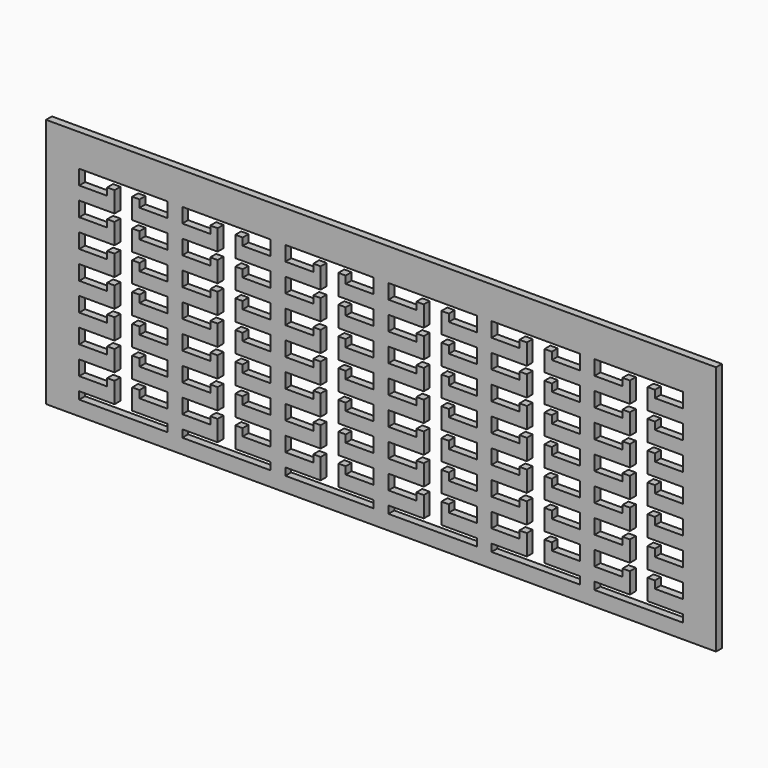
from build123d import *

# Parameters (mm, degrees)
F0_W     = 577.85
F0_H     = 215.9
F1_DEPTH = 6.35


with BuildPart() as f1:
    # F0 (on Front) → F1 (new body)
    with BuildSketch(Plane.XZ):
        with Locations((-282.109771, 15.203728)):
            Rectangle(F0_W, F0_H)
        Polygon((-542.459771, -62.202783), (-542.459771, -49.502783), (-511.979771, -49.502783), (-511.979771, -31.722783), (-518.329771, -31.722783), (-518.329771, -38.072783), (-542.459771, -38.072783), (-542.459771, -25.372783), (-511.979771, -25.372783), (-511.979771, -7.592783), (-518.329771, -7.592783), (-518.329771, -13.942783), (-542.459771, -13.942783), (-542.459771, -1.242783), (-511.979771, -1.242783), (-511.979771, 16.537217), (-518.329771, 16.537217), (-518.329771, 10.187217), (-542.459771, 10.187217), (-542.459771, 22.887217), (-511.979771, 22.887217), (-511.979771, 40.667217), (-518.329771, 40.667217), (-518.329771, 34.317217), (-542.459771, 34.317217), (-542.459771, 47.017217), (-511.979771, 47.017217), (-511.979771, 64.797217), (-518.329771, 64.797217), (-518.329771, 58.447217), (-542.459771, 58.447217), (-542.459771, 71.147217), (-511.979771, 71.147217), (-511.979771, 88.927217), (-518.329771, 88.927217), (-518.329771, 82.577217), (-542.459771, 82.577217), (-542.459771, 95.277217), (-466.259771, 95.277217), (-466.259771, 82.577217), (-490.389771, 82.577217), (-490.389771, 88.927217), (-496.739771, 88.927217), (-496.739771, 71.147217), (-466.259771, 71.147217), (-466.259771, 58.447217), (-490.389771, 58.447217), (-490.389771, 64.797217), (-496.739771, 64.797217), (-496.739771, 47.017217), (-466.259771, 47.017217), (-466.259771, 34.317217), (-490.389771, 34.317217), (-490.389771, 40.667217), (-496.739771, 40.667217), (-496.739771, 22.887217), (-466.259771, 22.887217), (-466.259771, 10.187217), (-490.389771, 10.187217), (-490.389771, 16.537217), (-496.739771, 16.537217), (-496.739771, -1.242783), (-466.259771, -1.242783), (-466.259771, -13.942783), (-490.389771, -13.942783), (-490.389771, -7.592783), (-496.739771, -7.592783), (-496.739771, -25.372783), (-466.259771, -25.372783), (-466.259771, -38.072783), (-490.389771, -38.072783), (-490.389771, -31.722783), (-496.739771, -31.722783), (-496.739771, -49.502783), (-466.259771, -49.502783), (-466.259771, -62.202783), (-490.389771, -62.202783), (-490.389771, -55.852783), (-496.739771, -55.852783), (-496.739771, -73.632783), (-466.259771, -73.632783), (-466.259771, -80.046283), (-542.459771, -80.046283), (-542.459771, -73.632783), (-511.979771, -73.632783), (-511.979771, -55.852783), (-518.329771, -55.852783), (-518.329771, -62.202783), align=None, mode=Mode.SUBTRACT)
        Polygon((-453.559771, -62.202772), (-453.559771, -49.502772), (-423.079771, -49.502772), (-423.079771, -31.722772), (-429.429771, -31.722772), (-429.429771, -38.072772), (-453.559771, -38.072772), (-453.559771, -25.372772), (-423.079771, -25.372772), (-423.079771, -7.592772), (-429.429771, -7.592772), (-429.429771, -13.942772), (-453.559771, -13.942772), (-453.559771, -1.242772), (-423.079771, -1.242772), (-423.079771, 16.537228), (-429.429771, 16.537228), (-429.429771, 10.187228), (-453.559771, 10.187228), (-453.559771, 22.887228), (-423.079771, 22.887228), (-423.079771, 40.667228), (-429.429771, 40.667228), (-429.429771, 34.317228), (-453.559771, 34.317228), (-453.559771, 47.017228), (-423.079771, 47.017228), (-423.079771, 64.797228), (-429.429771, 64.797228), (-429.429771, 58.447228), (-453.559771, 58.447228), (-453.559771, 71.147228), (-423.079771, 71.147228), (-423.079771, 88.927228), (-429.429771, 88.927228), (-429.429771, 82.577228), (-453.559771, 82.577228), (-453.559771, 95.277228), (-377.359771, 95.277228), (-377.359771, 82.577228), (-401.489771, 82.577228), (-401.489771, 88.927228), (-407.839771, 88.927228), (-407.839771, 71.147228), (-377.359771, 71.147228), (-377.359771, 58.447228), (-401.489771, 58.447228), (-401.489771, 64.797228), (-407.839771, 64.797228), (-407.839771, 47.017228), (-377.359771, 47.017228), (-377.359771, 34.317228), (-401.489771, 34.317228), (-401.489771, 40.667228), (-407.839771, 40.667228), (-407.839771, 22.887228), (-377.359771, 22.887228), (-377.359771, 10.187228), (-401.489771, 10.187228), (-401.489771, 16.537228), (-407.839771, 16.537228), (-407.839771, -1.242772), (-377.359771, -1.242772), (-377.359771, -13.942772), (-401.489771, -13.942772), (-401.489771, -7.592772), (-407.839771, -7.592772), (-407.839771, -25.372772), (-377.359771, -25.372772), (-377.359771, -38.072772), (-401.489771, -38.072772), (-401.489771, -31.722772), (-407.839771, -31.722772), (-407.839771, -49.502772), (-377.359771, -49.502772), (-377.359771, -62.202772), (-401.489771, -62.202772), (-401.489771, -55.852772), (-407.839771, -55.852772), (-407.839771, -73.632772), (-377.359771, -73.632772), (-377.359771, -80.046272), (-453.559771, -80.046272), (-453.559771, -73.632772), (-423.079771, -73.632772), (-423.079771, -55.852772), (-429.429771, -55.852772), (-429.429771, -62.202772), align=None, mode=Mode.SUBTRACT)
        Polygon((-364.659771, -62.202772), (-364.659771, -49.502772), (-334.179771, -49.502772), (-334.179771, -31.722772), (-340.529771, -31.722772), (-340.529771, -38.072772), (-364.659771, -38.072772), (-364.659771, -25.372772), (-334.179771, -25.372772), (-334.179771, -7.592772), (-340.529771, -7.592772), (-340.529771, -13.942772), (-364.659771, -13.942772), (-364.659771, -1.242772), (-334.179771, -1.242772), (-334.179771, 16.537228), (-340.529771, 16.537228), (-340.529771, 10.187228), (-364.659771, 10.187228), (-364.659771, 22.887228), (-334.179771, 22.887228), (-334.179771, 40.667228), (-340.529771, 40.667228), (-340.529771, 34.317228), (-364.659771, 34.317228), (-364.659771, 47.017228), (-334.179771, 47.017228), (-334.179771, 64.797228), (-340.529771, 64.797228), (-340.529771, 58.447228), (-364.659771, 58.447228), (-364.659771, 71.147228), (-334.179771, 71.147228), (-334.179771, 88.927228), (-340.529771, 88.927228), (-340.529771, 82.577228), (-364.659771, 82.577228), (-364.659771, 95.277228), (-288.459771, 95.277228), (-288.459771, 82.577228), (-312.589771, 82.577228), (-312.589771, 88.927228), (-318.939771, 88.927228), (-318.939771, 71.147228), (-288.459771, 71.147228), (-288.459771, 58.447228), (-312.589771, 58.447228), (-312.589771, 64.797228), (-318.939771, 64.797228), (-318.939771, 47.017228), (-288.459771, 47.017228), (-288.459771, 34.317228), (-312.589771, 34.317228), (-312.589771, 40.667228), (-318.939771, 40.667228), (-318.939771, 22.887228), (-288.459771, 22.887228), (-288.459771, 10.187228), (-312.589771, 10.187228), (-312.589771, 16.537228), (-318.939771, 16.537228), (-318.939771, -1.242772), (-288.459771, -1.242772), (-288.459771, -13.942772), (-312.589771, -13.942772), (-312.589771, -7.592772), (-318.939771, -7.592772), (-318.939771, -25.372772), (-288.459771, -25.372772), (-288.459771, -38.072772), (-312.589771, -38.072772), (-312.589771, -31.722772), (-318.939771, -31.722772), (-318.939771, -49.502772), (-288.459771, -49.502772), (-288.459771, -62.202772), (-312.589771, -62.202772), (-312.589771, -55.852772), (-318.939771, -55.852772), (-318.939771, -73.632772), (-288.459771, -73.632772), (-288.459771, -80.046272), (-364.659771, -80.046272), (-364.659771, -73.632772), (-334.179771, -73.632772), (-334.179771, -55.852772), (-340.529771, -55.852772), (-340.529771, -62.202772), align=None, mode=Mode.SUBTRACT)
        Polygon((-275.759771, -62.202772), (-275.759771, -49.502772), (-245.279771, -49.502772), (-245.279771, -31.722772), (-251.629771, -31.722772), (-251.629771, -38.072772), (-275.759771, -38.072772), (-275.759771, -25.372772), (-245.279771, -25.372772), (-245.279771, -7.592772), (-251.629771, -7.592772), (-251.629771, -13.942772), (-275.759771, -13.942772), (-275.759771, -1.242772), (-245.279771, -1.242772), (-245.279771, 16.537228), (-251.629771, 16.537228), (-251.629771, 10.187228), (-275.759771, 10.187228), (-275.759771, 22.887228), (-245.279771, 22.887228), (-245.279771, 40.667228), (-251.629771, 40.667228), (-251.629771, 34.317228), (-275.759771, 34.317228), (-275.759771, 47.017228), (-245.279771, 47.017228), (-245.279771, 64.797228), (-251.629771, 64.797228), (-251.629771, 58.447228), (-275.759771, 58.447228), (-275.759771, 71.147228), (-245.279771, 71.147228), (-245.279771, 88.927228), (-251.629771, 88.927228), (-251.629771, 82.577228), (-275.759771, 82.577228), (-275.759771, 95.277228), (-199.559771, 95.277228), (-199.559771, 82.577228), (-223.689771, 82.577228), (-223.689771, 88.927228), (-230.039771, 88.927228), (-230.039771, 71.147228), (-199.559771, 71.147228), (-199.559771, 58.447228), (-223.689771, 58.447228), (-223.689771, 64.797228), (-230.039771, 64.797228), (-230.039771, 47.017228), (-199.559771, 47.017228), (-199.559771, 34.317228), (-223.689771, 34.317228), (-223.689771, 40.667228), (-230.039771, 40.667228), (-230.039771, 22.887228), (-199.559771, 22.887228), (-199.559771, 10.187228), (-223.689771, 10.187228), (-223.689771, 16.537228), (-230.039771, 16.537228), (-230.039771, -1.242772), (-199.559771, -1.242772), (-199.559771, -13.942772), (-223.689771, -13.942772), (-223.689771, -7.592772), (-230.039771, -7.592772), (-230.039771, -25.372772), (-199.559771, -25.372772), (-199.559771, -38.072772), (-223.689771, -38.072772), (-223.689771, -31.722772), (-230.039771, -31.722772), (-230.039771, -49.502772), (-199.559771, -49.502772), (-199.559771, -62.202772), (-223.689771, -62.202772), (-223.689771, -55.852772), (-230.039771, -55.852772), (-230.039771, -73.632772), (-199.559771, -73.632772), (-199.559771, -80.046272), (-275.759771, -80.046272), (-275.759771, -73.632772), (-245.279771, -73.632772), (-245.279771, -55.852772), (-251.629771, -55.852772), (-251.629771, -62.202772), align=None, mode=Mode.SUBTRACT)
        Polygon((-186.859771, -62.202772), (-186.859771, -49.502772), (-156.379771, -49.502772), (-156.379771, -31.722772), (-162.729771, -31.722772), (-162.729771, -38.072772), (-186.859771, -38.072772), (-186.859771, -25.372772), (-156.379771, -25.372772), (-156.379771, -7.592772), (-162.729771, -7.592772), (-162.729771, -13.942772), (-186.859771, -13.942772), (-186.859771, -1.242772), (-156.379771, -1.242772), (-156.379771, 16.537228), (-162.729771, 16.537228), (-162.729771, 10.187228), (-186.859771, 10.187228), (-186.859771, 22.887228), (-156.379771, 22.887228), (-156.379771, 40.667228), (-162.729771, 40.667228), (-162.729771, 34.317228), (-186.859771, 34.317228), (-186.859771, 47.017228), (-156.379771, 47.017228), (-156.379771, 64.797228), (-162.729771, 64.797228), (-162.729771, 58.447228), (-186.859771, 58.447228), (-186.859771, 71.147228), (-156.379771, 71.147228), (-156.379771, 88.927228), (-162.729771, 88.927228), (-162.729771, 82.577228), (-186.859771, 82.577228), (-186.859771, 95.277228), (-110.659771, 95.277228), (-110.659771, 82.577228), (-134.789771, 82.577228), (-134.789771, 88.927228), (-141.139771, 88.927228), (-141.139771, 71.147228), (-110.659771, 71.147228), (-110.659771, 58.447228), (-134.789771, 58.447228), (-134.789771, 64.797228), (-141.139771, 64.797228), (-141.139771, 47.017228), (-110.659771, 47.017228), (-110.659771, 34.317228), (-134.789771, 34.317228), (-134.789771, 40.667228), (-141.139771, 40.667228), (-141.139771, 22.887228), (-110.659771, 22.887228), (-110.659771, 10.187228), (-134.789771, 10.187228), (-134.789771, 16.537228), (-141.139771, 16.537228), (-141.139771, -1.242772), (-110.659771, -1.242772), (-110.659771, -13.942772), (-134.789771, -13.942772), (-134.789771, -7.592772), (-141.139771, -7.592772), (-141.139771, -25.372772), (-110.659771, -25.372772), (-110.659771, -38.072772), (-134.789771, -38.072772), (-134.789771, -31.722772), (-141.139771, -31.722772), (-141.139771, -49.502772), (-110.659771, -49.502772), (-110.659771, -62.202772), (-134.789771, -62.202772), (-134.789771, -55.852772), (-141.139771, -55.852772), (-141.139771, -73.632772), (-110.659771, -73.632772), (-110.659771, -80.046272), (-186.859771, -80.046272), (-186.859771, -73.632772), (-156.379771, -73.632772), (-156.379771, -55.852772), (-162.729771, -55.852772), (-162.729771, -62.202772), align=None, mode=Mode.SUBTRACT)
        Polygon((-97.959771, -62.202772), (-97.959771, -49.502772), (-67.479771, -49.502772), (-67.479771, -31.722772), (-73.829771, -31.722772), (-73.829771, -38.072772), (-97.959771, -38.072772), (-97.959771, -25.372772), (-67.479771, -25.372772), (-67.479771, -7.592772), (-73.829771, -7.592772), (-73.829771, -13.942772), (-97.959771, -13.942772), (-97.959771, -1.242772), (-67.479771, -1.242772), (-67.479771, 16.537228), (-73.829771, 16.537228), (-73.829771, 10.187228), (-97.959771, 10.187228), (-97.959771, 22.887228), (-67.479771, 22.887228), (-67.479771, 40.667228), (-73.829771, 40.667228), (-73.829771, 34.317228), (-97.959771, 34.317228), (-97.959771, 47.017228), (-67.479771, 47.017228), (-67.479771, 64.797228), (-73.829771, 64.797228), (-73.829771, 58.447228), (-97.959771, 58.447228), (-97.959771, 71.147228), (-67.479771, 71.147228), (-67.479771, 88.927228), (-73.829771, 88.927228), (-73.829771, 82.577228), (-97.959771, 82.577228), (-97.959771, 95.277228), (-21.759771, 95.277228), (-21.759771, 82.577228), (-45.889771, 82.577228), (-45.889771, 88.927228), (-52.239771, 88.927228), (-52.239771, 71.147228), (-21.759771, 71.147228), (-21.759771, 58.447228), (-45.889771, 58.447228), (-45.889771, 64.797228), (-52.239771, 64.797228), (-52.239771, 47.017228), (-21.759771, 47.017228), (-21.759771, 34.317228), (-45.889771, 34.317228), (-45.889771, 40.667228), (-52.239771, 40.667228), (-52.239771, 22.887228), (-21.759771, 22.887228), (-21.759771, 10.187228), (-45.889771, 10.187228), (-45.889771, 16.537228), (-52.239771, 16.537228), (-52.239771, -1.242772), (-21.759771, -1.242772), (-21.759771, -13.942772), (-45.889771, -13.942772), (-45.889771, -7.592772), (-52.239771, -7.592772), (-52.239771, -25.372772), (-21.759771, -25.372772), (-21.759771, -38.072772), (-45.889771, -38.072772), (-45.889771, -31.722772), (-52.239771, -31.722772), (-52.239771, -49.502772), (-21.759771, -49.502772), (-21.759771, -62.202772), (-45.889771, -62.202772), (-45.889771, -55.852772), (-52.239771, -55.852772), (-52.239771, -73.632772), (-21.759771, -73.632772), (-21.759771, -80.046272), (-97.959771, -80.046272), (-97.959771, -73.632772), (-67.479771, -73.632772), (-67.479771, -55.852772), (-73.829771, -55.852772), (-73.829771, -62.202772), align=None, mode=Mode.SUBTRACT)
    extrude(amount=F1_DEPTH)


solid = f1.part
